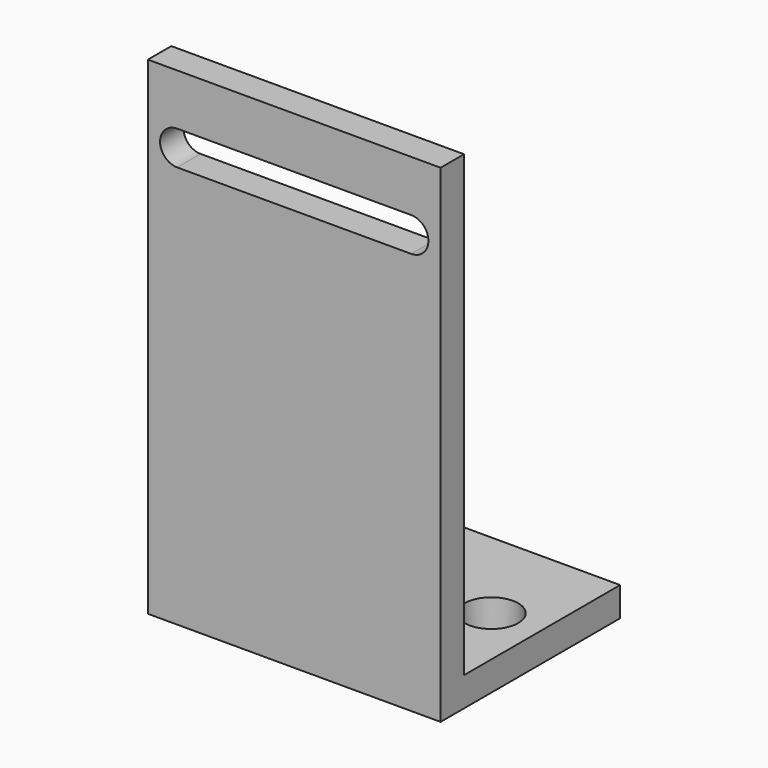
from build123d import *

# Parameters (mm, degrees)
F0_W     = 30
F0_H     = 50
F1_DEPTH = 3
F2_W     = 30
F2_H     = 3
F3_DEPTH = 20
F4_R     = 2.75
F5_DEPTH = 3.001
F7_DEPTH = 23.001


with BuildPart() as f1:
    # F0 (on Front) → F1 (new body)
    with BuildSketch(Plane.XZ):
        with Locations((2.5, 25)):
            Rectangle(F0_W, F0_H)
    extrude(amount=F1_DEPTH)

    # F2 (on face) → F3 (join)
    with BuildSketch(Plane(origin=(0, 0, 0), x_dir=(-1, 0, 0), z_dir=(0, 1, 0))):
        with Locations((-2.5, 1.5)):
            Rectangle(F2_W, F2_H)
    extrude(amount=F3_DEPTH)

    # F4 (on face) → F5 (cut, through all)
    with BuildSketch(Plane.XY.offset(3)):
        with Locations((12.5, 9.75894)):
            Circle(F4_R)
        with Locations((-7.5, 9.75894)):
            Circle(F4_R)
    extrude(amount=-F5_DEPTH, mode=Mode.SUBTRACT)

    # F6 (on face) → F7 (cut, through all)
    with BuildSketch(Plane.XZ.offset(3)):
        with BuildLine():
            Line((14.5, 44.75), (-9.5, 44.75))
            ThreePointArc((-9.5, 44.75), (-11.25, 43), (-9.5, 41.25))
            Line((-9.5, 41.25), (14.5, 41.25))
            ThreePointArc((14.5, 41.25), (16.25, 43), (14.5, 44.75))
        make_face()
    extrude(amount=-F7_DEPTH, mode=Mode.SUBTRACT)


solid = f1.part
